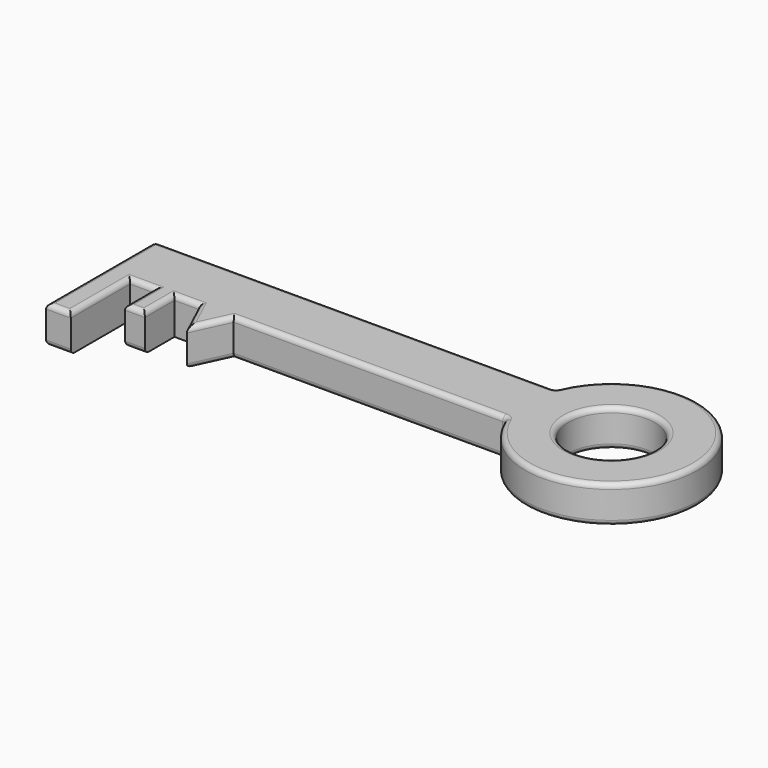
from build123d import *

# Parameters (mm, degrees)
F0_W     = 10
F0_H     = 30
F0_R     = 17.5
F0_W_2   = 8
F0_H_2   = 15
F1_DEPTH = 15
F2_R     = 2


with BuildPart() as f1:
    # F0 (on Top) → F1 (new body)
    with BuildSketch(Plane.XY):
        with Locations((-82.245037, -15)):
            Rectangle(F0_W, F0_H)
        Polygon((-42.244907, -15), (-35.244778, 0), (-49.245037, 0), align=None)
        with BuildLine():
            Line((75.0551, 25), (-87.245037, 25))
            Line((-87.245037, 25), (-87.245037, 0))
            Line((-87.245037, 0), (-77.245037, 0))
            Line((-77.245037, 0), (-67.245037, 0))
            Line((-67.245037, 0), (-59.245037, 0))
            Line((-59.245037, 0), (-49.245037, 0))
            Line((-49.245037, 0), (-35.244778, 0))
            Line((-35.244778, 0), (75.0551, 0))
            ThreePointArc((75.0551, 0), (142.746842, 12.5), (75.0551, 25))
        make_face()
        with Locations((107.746842, 12.5)):
            Circle(F0_R, mode=Mode.SUBTRACT)
        with Locations((-63.245037, -7.5)):
            Rectangle(F0_W_2, F0_H_2)
    extrude(amount=F1_DEPTH)

    # F2
    f2_edges = [f1.edges().sort_by_distance(p)[0] for p in [
        (-87.245037, -2.5, 15),
        (-82.245037, -30, 15),
        (-77.245037, -15, 15),
        (-72.245037, 0, 15),
        (-67.245037, -7.5, 15),
        (-63.245037, -15, 15),
        (-59.245037, -7.5, 15),
        (-54.245037, 0, 15),
        (-45.744972, -7.5, 15),
        (-38.744843, -7.5, 15),
        (19.905161, 0, 15),
        (142.746842, 12.5, 15),
        (-6.094968, 25, 15),
        (90.246842, 12.5, 15),
        (19.905161, 0, 0),
        (75.0551, 0, 7.5),
        (75.0551, 25, 7.5),
        (142.746842, 12.5, 0),
        (-38.744843, -7.5, 0),
        (-45.744972, -7.5, 0),
        (-63.245037, -15, 0),
        (-82.245037, -30, 0),
        (-87.245037, 25, 7.5),
        (-6.094968, 25, 0),
        (-67.245037, -7.5, 0),
        (-87.245037, -2.5, 0),
        (90.246842, 12.5, 0),
    ]]
    fillet(f2_edges, radius=F2_R)


solid = f1.part
